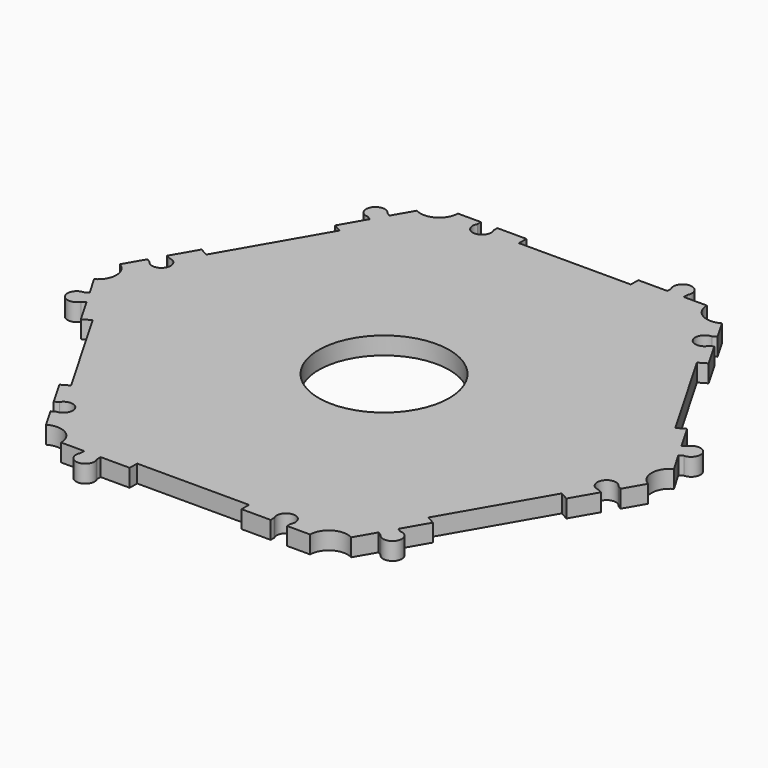
from build123d import *

# Parameters (mm, degrees)
F1_DEPTH = 2.9972
F2_W     = 19.05
F2_H     = 1.5875
F2_R     = 11.1125
F3_DEPTH = 2.9982
F5_DEPTH = 2.9972


with BuildPart() as f1:
    # F0 (on Top) → F1 (new body)
    with BuildSketch(Plane.XY):
        Polygon((-24.3800584922, 42.2275), (-48.7601169844, 0), (-24.3800584922, -42.2275), (24.3800584922, -42.2275), (48.7601169844, 0), (24.3800584922, 42.2275), align=None)
    extrude(amount=F1_DEPTH)

    # F2 (on Top) → F3 (cut, through all)
    with BuildSketch(Plane.XY):
        with Locations((0, 41.43375)):
            Rectangle(F2_W, F2_H)
        with BuildLine():
            Line((-17.272, 42.2275), (-17.272, 41.4655))
            ThreePointArc((-17.272, 41.4655), (-15.875, 39.1239792775), (-14.478, 41.4655))
            Line((-14.478, 41.4655), (-14.478, 42.2275))
            Line((-14.478, 42.2275), (-17.272, 42.2275))
        make_face()
        with BuildLine():
            Line((-24.3800584922, 42.2275), (-25.9675584922, 39.477869343))
            ThreePointArc((-25.9675584922, 39.477869343), (-22.7925584922, 39.477869343), (-21.2050584922, 42.2275))
            Line((-21.2050584922, 42.2275), (-24.3800584922, 42.2275))
        make_face()
        Polygon((-31.8075877383, 29.362641971), (-41.3325877383, 12.864858029), (-39.9577724098, 12.071108029), (-30.4327724098, 28.568891971), align=None)
        with BuildLine():
            Line((-48.7601169844, 0), (-47.1726169844, -2.749630657))
            ThreePointArc((-47.1726169844, -2.749630657), (-45.5851169844, 0), (-47.1726169844, 2.749630657))
            Line((-47.1726169844, 2.749630657), (-48.7601169844, 0))
        make_face()
        with BuildLine():
            Line((-45.2060877383, 6.1557592258), (-44.5461763806, 5.7747592258))
            ThreePointArc((-44.5461763806, 5.7747592258), (-41.8198599514, 5.8138363537), (-43.1491763806, 8.194434204))
            Line((-43.1491763806, 8.194434204), (-43.8090877383, 8.575434204))
            Line((-43.8090877383, 8.575434204), (-45.2060877383, 6.1557592258))
        make_face()
        Polygon((-41.3325877383, -12.864858029), (-31.8075877383, -29.362641971), (-30.4327724098, -28.568891971), (-39.9577724098, -12.071108029), align=None)
        with BuildLine():
            Line((-24.3800584922, -42.2275), (-21.2050584922, -42.2275))
            ThreePointArc((-21.2050584922, -42.2275), (-22.7925584922, -39.477869343), (-25.9675584922, -39.477869343))
            Line((-25.9675584922, -39.477869343), (-24.3800584922, -42.2275))
        make_face()
        with BuildLine():
            Line((-27.9340877383, -36.0717407742), (-27.2741763806, -35.6907407742))
            ThreePointArc((-27.2741763806, -35.6907407742), (-25.9448599514, -33.3101429238), (-28.6711763806, -33.271065796))
            Line((-28.6711763806, -33.271065796), (-29.3310877383, -33.652065796))
            Line((-29.3310877383, -33.652065796), (-27.9340877383, -36.0717407742))
        make_face()
        with Locations((0, -41.43375)):
            Rectangle(F2_W, F2_H)
        with BuildLine():
            Line((24.3800584922, -42.2275), (25.9675584922, -39.477869343))
            ThreePointArc((25.9675584922, -39.477869343), (22.7925584922, -39.477869343), (21.2050584922, -42.2275))
            Line((21.2050584922, -42.2275), (24.3800584922, -42.2275))
        make_face()
        with BuildLine():
            Line((17.272, -42.2275), (17.272, -41.4655))
            ThreePointArc((17.272, -41.4655), (15.875, -39.1239792775), (14.478, -41.4655))
            Line((14.478, -41.4655), (14.478, -42.2275))
            Line((14.478, -42.2275), (17.272, -42.2275))
        make_face()
        Polygon((31.8075877383, -29.362641971), (41.3325877383, -12.864858029), (39.9577724098, -12.071108029), (30.4327724098, -28.568891971), align=None)
        with BuildLine():
            Line((48.7601169844, 0), (47.1726169844, 2.749630657))
            ThreePointArc((47.1726169844, 2.749630657), (45.5851169844, 0), (47.1726169844, -2.749630657))
            Line((47.1726169844, -2.749630657), (48.7601169844, 0))
        make_face()
        with BuildLine():
            Line((45.2060877383, -6.1557592258), (44.5461763806, -5.7747592258))
            ThreePointArc((44.5461763806, -5.7747592258), (41.8198599514, -5.8138363537), (43.1491763806, -8.194434204))
            Line((43.1491763806, -8.194434204), (43.8090877383, -8.575434204))
            Line((43.8090877383, -8.575434204), (45.2060877383, -6.1557592258))
        make_face()
        Polygon((41.3325877383, 12.864858029), (31.8075877383, 29.362641971), (30.4327724098, 28.568891971), (39.9577724098, 12.071108029), align=None)
        with BuildLine():
            Line((24.3800584922, 42.2275), (21.2050584922, 42.2275))
            ThreePointArc((21.2050584922, 42.2275), (22.7925584922, 39.477869343), (25.9675584922, 39.477869343))
            Line((25.9675584922, 39.477869343), (24.3800584922, 42.2275))
        make_face()
        with BuildLine():
            Line((27.9340877383, 36.0717407742), (27.2741763806, 35.6907407742))
            ThreePointArc((27.2741763806, 35.6907407742), (25.9448599514, 33.3101429238), (28.6711763806, 33.271065796))
            Line((28.6711763806, 33.271065796), (29.3310877383, 33.652065796))
            Line((29.3310877383, 33.652065796), (27.9340877383, 36.0717407742))
        make_face()
        Circle(F2_R)
    extrude(amount=F3_DEPTH, mode=Mode.SUBTRACT)

    # F4 (on Top) → F5 (join, through all)
    with BuildSketch(Plane.XY):
        with BuildLine():
            Line((17.272, 42.2275), (17.272, 42.9895))
            ThreePointArc((17.272, 42.9895), (15.875, 45.3310207225), (14.478, 42.9895))
            Line((14.478, 42.9895), (14.478, 42.2275))
            Line((14.478, 42.2275), (17.272, 42.2275))
        make_face()
        with BuildLine():
            Line((-29.990999096, 34.033065796), (-29.3310877383, 33.652065796))
            Line((-29.3310877383, 33.652065796), (-27.9340877383, 36.0717407742))
            Line((-27.9340877383, 36.0717407742), (-28.593999096, 36.4527407742))
            ThreePointArc((-28.593999096, 36.4527407742), (-31.3203155252, 36.4136636463), (-29.990999096, 34.033065796))
        make_face()
        with BuildLine():
            Line((-44.468999096, -8.956434204), (-43.8090877383, -8.575434204))
            Line((-43.8090877383, -8.575434204), (-45.2060877383, -6.1557592258))
            Line((-45.2060877383, -6.1557592258), (-45.865999096, -6.5367592258))
            ThreePointArc((-45.865999096, -6.5367592258), (-47.1953155252, -8.9173570762), (-44.468999096, -8.956434204))
        make_face()
        with BuildLine():
            Line((-14.478, -42.9895), (-14.478, -42.2275))
            Line((-14.478, -42.2275), (-17.272, -42.2275))
            Line((-17.272, -42.2275), (-17.272, -42.9895))
            ThreePointArc((-17.272, -42.9895), (-15.875, -45.3310207225), (-14.478, -42.9895))
        make_face()
        with BuildLine():
            Line((29.990999096, -34.033065796), (29.3310877383, -33.652065796))
            Line((29.3310877383, -33.652065796), (27.9340877383, -36.0717407742))
            Line((27.9340877383, -36.0717407742), (28.593999096, -36.4527407742))
            ThreePointArc((28.593999096, -36.4527407742), (31.3203155252, -36.4136636463), (29.990999096, -34.033065796))
        make_face()
        with BuildLine():
            Line((44.468999096, 8.956434204), (43.8090877383, 8.575434204))
            Line((43.8090877383, 8.575434204), (45.2060877383, 6.1557592258))
            Line((45.2060877383, 6.1557592258), (45.865999096, 6.5367592258))
            ThreePointArc((45.865999096, 6.5367592258), (47.1953155252, 8.9173570762), (44.468999096, 8.956434204))
        make_face()
    extrude(amount=F5_DEPTH)


solid = f1.part
